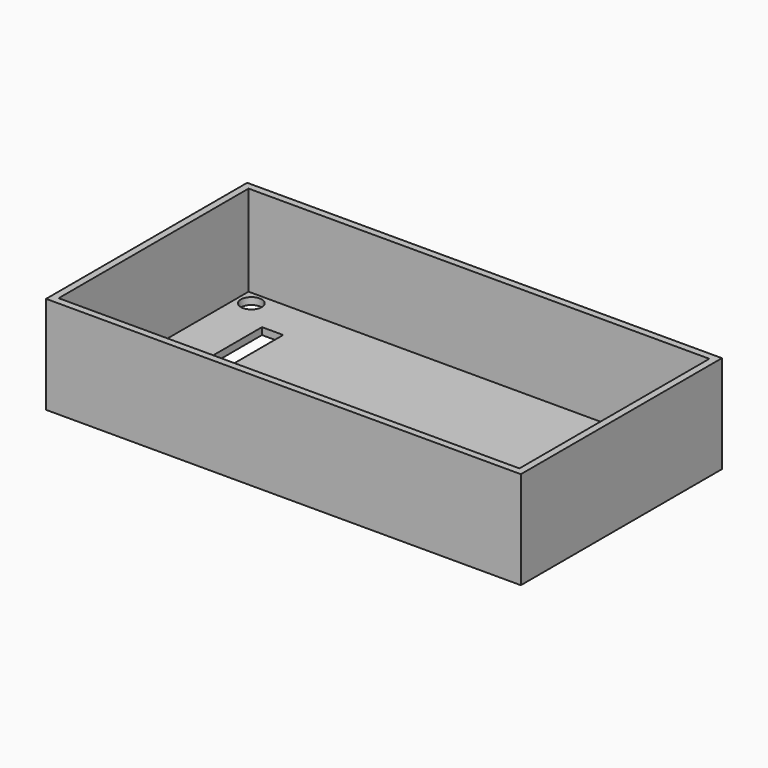
from build123d import *

# Parameters (mm, degrees)
SKETCH054_W     = 68
SKETCH054_H     = 36
SKETCH054_W_2   = 3.04
SKETCH054_H_2   = 13.335
PAD036_DEPTH    = 1
SKETCH055_W     = 68
SKETCH055_H     = 36
SKETCH055_W_2   = 66
SKETCH055_H_2   = 34
PAD037_DEPTH    = 13
SKETCH058_R     = 1.5
POCKET010_DEPTH = 1.001


with BuildPart() as part:
    # Sketch054 → Pad036 (new body)
    with BuildSketch(Plane.XY):
        Rectangle(SKETCH054_W, SKETCH054_H)
        with Locations((-24.94, 4.5625)):
            Rectangle(SKETCH054_W_2, SKETCH054_H_2, mode=Mode.SUBTRACT)
    extrude(amount=PAD036_DEPTH)

    # Sketch055 (on Face10 of Pad036) → Pad037 (join)
    with BuildSketch(Plane.XY.offset(1)):
        Rectangle(SKETCH055_W, SKETCH055_H)
        Rectangle(SKETCH055_W_2, SKETCH055_H_2, mode=Mode.SUBTRACT)
    extrude(amount=PAD037_DEPTH)

    # Sketch058 (on Face15 of Pad037) → Pocket010 (cut, through all)
    with BuildSketch(Plane.XY.offset(1)):
        with Locations((-31, 15)):
            Circle(SKETCH058_R)
        with Locations((31, 15)):
            Circle(SKETCH058_R)
        with Locations((31, -15)):
            Circle(SKETCH058_R)
        with Locations((-31, -15)):
            Circle(SKETCH058_R)
    extrude(amount=-POCKET010_DEPTH, mode=Mode.SUBTRACT)


solid = part.part
